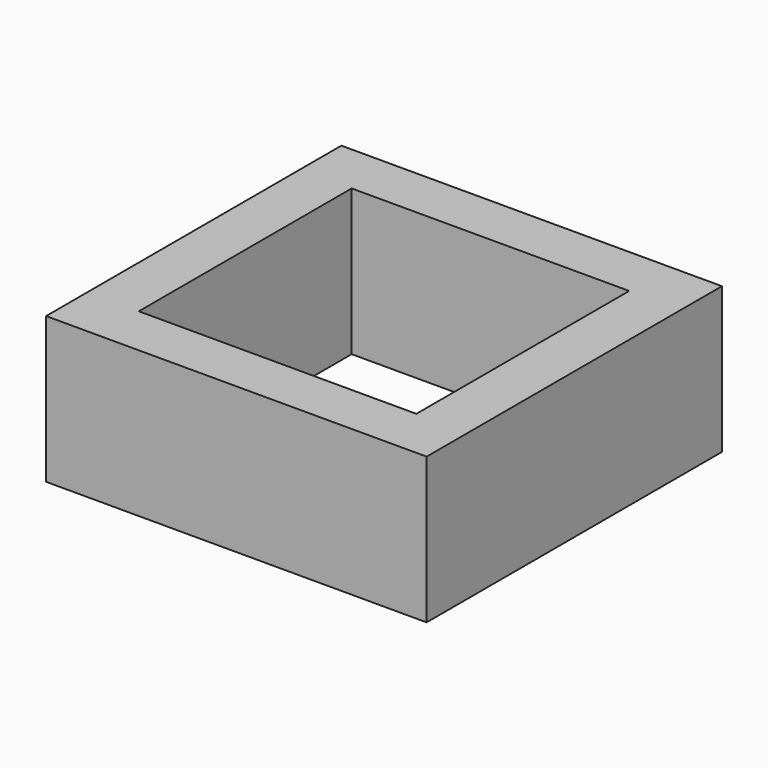
from build123d import *

# Parameters (mm, degrees)
BOX002_W     = 9.7
BOX002_H     = 9.3
BOX002_DEPTH = 5.1
BOX001_W     = 13.3
BOX001_H     = 12.9
BOX001_DEPTH = 5.1


with BuildPart() as cube002:
    # Box002 → Box002 (new body)
    with BuildSketch(Plane(origin=(1.8, 1.8, 0), x_dir=(1, 0, 0), z_dir=(0, 0, 1))):
        with Locations((4.85, 4.65)):
            Rectangle(BOX002_W, BOX002_H)
    extrude(amount=BOX002_DEPTH)


with BuildPart() as cut:
    # Box001 → Box001 (new body)
    with BuildSketch(Plane.XY):
        with Locations((6.65, 6.45)):
            Rectangle(BOX001_W, BOX001_H)
    extrude(amount=BOX001_DEPTH)

    # Cut: cut Cube002
    add(cube002.part, mode=Mode.SUBTRACT)


with BuildPart() as cut_1:
    # Cut placement: moved
    add(cut.part.moved(Location((18.75, 7, 0))))


solid = cut_1.part
